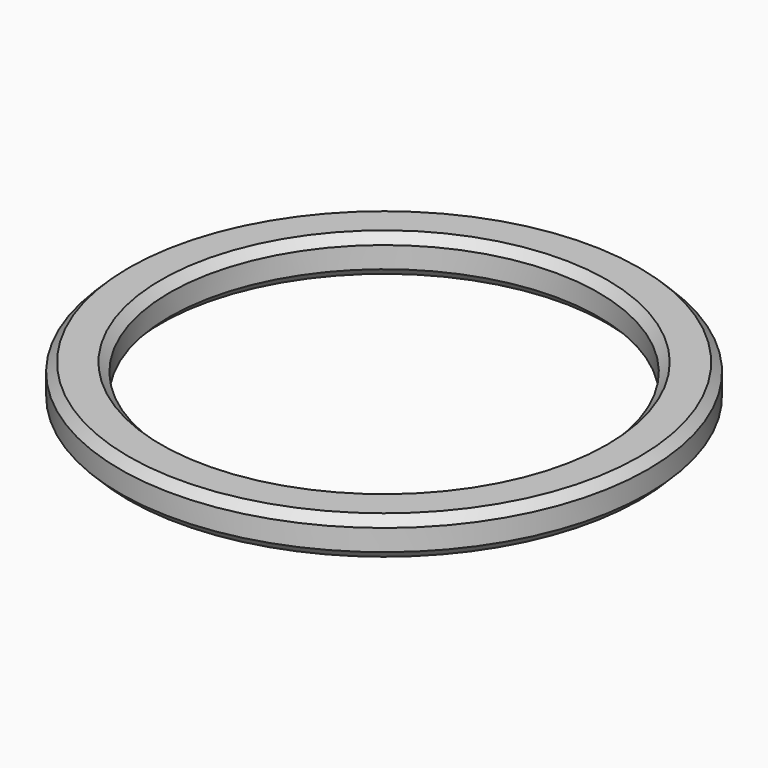
from build123d import *

# Parameters (mm, degrees)
SKETCH_R     = 7.75
SKETCH_R_2   = 6.3
PAD_DEPTH    = 1.125
CHAMFER_SIZE = 0.25


with BuildPart() as part:
    # Sketch → Pad (new body)
    with BuildSketch(Plane.XY):
        Circle(SKETCH_R)
        Circle(SKETCH_R_2, mode=Mode.SUBTRACT)
    extrude(amount=PAD_DEPTH)

    # Chamfer
    chamfer_edges = [part.edges().sort_by_distance(p)[0] for p in [
        (-7.75, 0, 1.125),
        (-6.3, 0, 1.125),
        (-7.75, 0, 0),
        (-6.3, 0, 0),
    ]]
    chamfer(chamfer_edges, length=CHAMFER_SIZE)


solid = part.part
